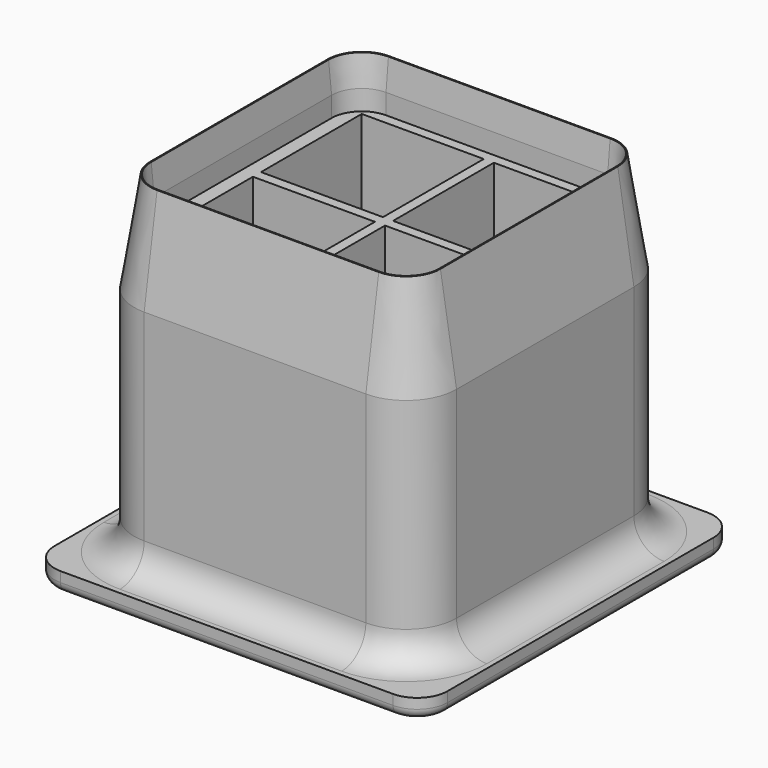
from build123d import *

# Parameters (mm, degrees)
F0_W     = 39
F0_H     = 39
F1_DEPTH = 2
F2_DEPTH = 35
F3_SIZE2 = 10
F3_SIZE  = 1.6
F4_DEPTH = 30
F5_SIZE2 = 3
F5_SIZE  = 0.3
F0_W_2   = 12.1088270918
F0_H_2   = 1
F0_W_3   = 1
F0_H_3   = 12.5
F6_DEPTH = 30
F7_R     = 3
F8_R     = 1


with BuildPart() as f1:
    # F0 (on Top) → F1 (new body)
    with BuildSketch(Plane.XY):
        Rectangle(F0_W, F0_H)
        with BuildLine():
            Line((-16, -11), (-16, 11))
            ThreePointArc((-16, 11), (-14.5355339059, 14.5355339059), (-11, 16))
            Line((-11, 16), (11, 16))
            ThreePointArc((11, 16), (14.5355339059, 14.5355339059), (16, 11))
            Line((16, 11), (16, -11))
            ThreePointArc((16, -11), (14.5355339059, -14.5355339059), (11, -16))
            Line((11, -16), (-11, -16))
            ThreePointArc((-11, -16), (-14.5355339059, -14.5355339059), (-16, -11))
        make_face(mode=Mode.SUBTRACT)
        with BuildLine():
            ThreePointArc((-11, 16), (-14.5355339059, 14.5355339059), (-16, 11))
            Line((-16, 11), (-16, -11))
            ThreePointArc((-16, -11), (-14.5355339059, -14.5355339059), (-11, -16))
            Line((-11, -16), (11, -16))
            ThreePointArc((11, -16), (14.5355339059, -14.5355339059), (16, -11))
            Line((16, -11), (16, 11))
            ThreePointArc((16, 11), (14.5355339059, 14.5355339059), (11, 16))
            Line((11, 16), (-11, 16))
        make_face()
        with BuildLine():
            Line((-14, -11), (-14, 11))
            ThreePointArc((-14, 11), (-13.1213203436, 13.1213203436), (-11, 14))
            Line((-11, 14), (11, 14))
            ThreePointArc((11, 14), (13.1213203436, 13.1213203436), (14, 11))
            Line((14, 11), (14, -11))
            ThreePointArc((14, -11), (13.1213203436, -13.1213203436), (11, -14))
            Line((11, -14), (-11, -14))
            ThreePointArc((-11, -14), (-13.1213203436, -13.1213203436), (-14, -11))
        make_face(mode=Mode.SUBTRACT)
    extrude(amount=F1_DEPTH)

    # F0 (on Top) → F2 (join)
    with BuildSketch(Plane.XY):
        with BuildLine():
            ThreePointArc((-11, 16), (-14.5355339059, 14.5355339059), (-16, 11))
            Line((-16, 11), (-16, -11))
            ThreePointArc((-16, -11), (-14.5355339059, -14.5355339059), (-11, -16))
            Line((-11, -16), (11, -16))
            ThreePointArc((11, -16), (14.5355339059, -14.5355339059), (16, -11))
            Line((16, -11), (16, 11))
            ThreePointArc((16, 11), (14.5355339059, 14.5355339059), (11, 16))
            Line((11, 16), (-11, 16))
        make_face()
        with BuildLine():
            Line((-14, -11), (-14, 11))
            ThreePointArc((-14, 11), (-13.1213203436, 13.1213203436), (-11, 14))
            Line((-11, 14), (11, 14))
            ThreePointArc((11, 14), (13.1213203436, 13.1213203436), (14, 11))
            Line((14, 11), (14, -11))
            ThreePointArc((14, -11), (13.1213203436, -13.1213203436), (11, -14))
            Line((11, -14), (-11, -14))
            ThreePointArc((-11, -14), (-13.1213203436, -13.1213203436), (-14, -11))
        make_face(mode=Mode.SUBTRACT)
    extrude(amount=F2_DEPTH)

    # F3
    f3_edges = [f1.edges().sort_by_distance(p)[0] for p in [
        (0, -16, 35),
        (14.535534, -14.535534, 35),
        (16, 0, 35),
        (14.535534, 14.535534, 35),
        (0, 16, 35),
        (-14.535534, 14.535534, 35),
        (-16, 0, 35),
        (-14.535534, -14.535534, 35),
    ]]
    f3_side = f1.faces().sort_by_distance((-14.215534, 14.215534, 35))[0]
    chamfer(f3_edges, length=F3_SIZE, length2=F3_SIZE2, reference=f3_side)

    # F0 (on Top) → F4 (join)
    with BuildSketch(Plane.XY):
        with BuildLine():
            ThreePointArc((-11, 14), (-13.1213203436, 13.1213203436), (-14, 11))
            Line((-14, 11), (-14, -11))
            ThreePointArc((-14, -11), (-13.1213203436, -13.1213203436), (-11, -14))
            Line((-11, -14), (11, -14))
            ThreePointArc((11, -14), (13.1213203436, -13.1213203436), (14, -11))
            Line((14, -11), (14, 11))
            ThreePointArc((14, 11), (13.1213203436, 13.1213203436), (11, 14))
            Line((11, 14), (-11, 14))
        make_face()
        Polygon((-12.6088270918, 0.5), (-12.6088270918, 13), (-0.5, 13), (0.5, 13), (12.6088270918, 13), (12.6088270918, 0.5), (12.6088270918, -0.5), (12.6088270918, -13), (0.5, -13), (-0.5, -13), (-12.6088270918, -13), (-12.6088270918, -0.5), align=None, mode=Mode.SUBTRACT)
    extrude(amount=F4_DEPTH)

    # F5
    f5_edges = [f1.edges().sort_by_distance(p)[0] for p in [
        (0, 14, 35),
        (13.12132, 13.12132, 35),
        (14, 0, 35),
        (13.12132, -13.12132, 35),
        (0, -14, 35),
        (-13.12132, -13.12132, 35),
        (-14, 0, 35),
        (-13.12132, 13.12132, 35),
    ]]
    f5_side = f1.faces().sort_by_distance((0, -14.359271, 35))[0]
    chamfer(f5_edges, length=F5_SIZE, length2=F5_SIZE2, reference=f5_side)

    # F0 (on Top) → F6 (join)
    with BuildSketch(Plane.XY):
        with Locations((6.5544135459, 0)):
            Rectangle(F0_W_2, F0_H_2)
        with Locations((0, -6.75)):
            Rectangle(F0_W_3, F0_H_3)
        with Locations((-6.5544135459, 0)):
            Rectangle(F0_W_2, F0_H_2)
        Rectangle(F0_W_3, F0_H_2)
        with Locations((0, 6.75)):
            Rectangle(F0_W_3, F0_H_3)
    extrude(amount=F6_DEPTH)

    # F7
    f7_edges = [f1.edges().sort_by_distance(p)[0] for p in [
        (0, 16, 2),
        (-19.5, 19.5, 1),
        (19.5, 19.5, 1),
        (-19.5, -19.5, 1),
        (19.5, -19.5, 1),
    ]]
    fillet(f7_edges, radius=F7_R)

    # F8
    f8_edges = [f1.edges().sort_by_distance(p)[0] for p in [
        (0, -19.5, 0),
    ]]
    fillet(f8_edges, radius=F8_R)


solid = f1.part
